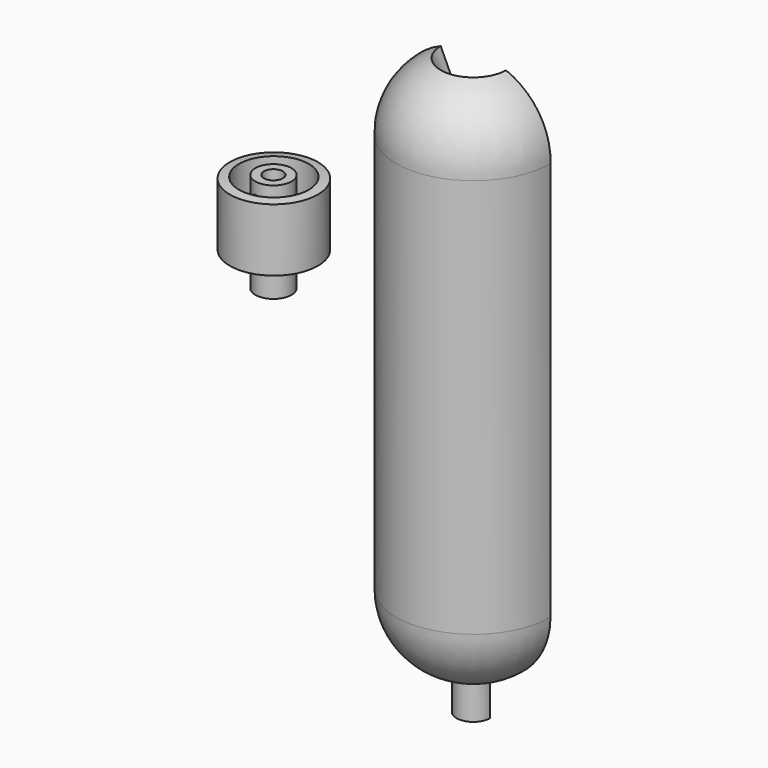
from build123d import *

# Parameters (mm, degrees)
F1_ANGLE  = 180
F4_R      = 4.516742
F5_DEPTH  = 25
F6_R      = 2.373704
F7_DEPTH  = 25
F8_W      = 3.216295
F8_H      = 9.752633
F9_DEPTH  = 6
F10_W     = 2.967861
F10_H     = 9.013506
F11_DEPTH = 6


with BuildPart() as f1:
    # F0 (on Front) → F1 (revolve)
    with BuildSketch(Plane.XZ):
        with BuildLine():
            Line((0, 50), (0, 0))
            Line((0, 0), (0, -49.90657))
            ThreePointArc((0, -49.90657), (4.324028, -61.578796), (15.119922, -67.774496))
            Line((15.119922, -67.774496), (15.119922, -77.07087))
            Line((15.119922, -77.07087), (19.309778, -77.07087))
            Line((19.309778, -77.07087), (19.309778, -74.997999))
            Line((19.309778, -74.997999), (16.822333, -74.997999))
            Line((16.822333, -74.997999), (16.822333, -67.774496))
            Line((16.822333, -67.774496), (16.822333, -63.389927))
            Line((16.822333, -63.389927), (6.319795, -58.967806))
            Line((6.319795, -58.967806), (2.060059, -49.90657))
            Line((2.060059, -49.90657), (2.060059, 49.90657))
            Line((2.060059, 49.90657), (3.44487, 56.894728))
            Line((3.44487, 56.894728), (13.622966, 61.602388))
            Line((13.622966, 61.602388), (11.144332, 66.961265))
            ThreePointArc((11.144332, 66.961265), (2.884864, 60.246314), (0, 50))
        make_face()
    revolve(axis=Axis((19.309778, 0, -76.034434), (0, 0, 1)), revolution_arc=F1_ANGLE)


with BuildPart() as f3:
    # F2 (on Front) → F3 (revolve)
    with BuildSketch(Plane.XZ):
        Polygon((-19.587396, 8.553413), (-19.587396, 24.256162), (-21.858403, 24.586305), (-21.858403, 11.003703), (-30.601788, 11.003703), (-30.601788, 8.553413), align=None)
    revolve(axis=Axis((-30.601788, 0, 9.778558), (0, 0, 1)))

    # F4 (on Top) → F5 (join)
    with BuildSketch(Plane.XY):
        with Locations((-30.711202, 0)):
            Circle(F4_R)
    extrude(amount=F5_DEPTH)

    # F6 (on face) → F7 (cut)
    with BuildSketch(Plane.XY.offset(25)):
        with Locations((-30.711202, 0)):
            Circle(F6_R)
    extrude(amount=-F7_DEPTH, mode=Mode.SUBTRACT)

    # F8 (on Front) → F9 (cut)
    with BuildSketch(Plane.XZ):
        with Locations((-30.581624, 17.174087)):
            Rectangle(F8_W, F8_H)
    extrude(amount=F9_DEPTH, mode=Mode.SUBTRACT)

    # F10 (on Front) → F11 (cut)
    with BuildSketch(Plane.XZ):
        with Locations((-30.791691, 17.398643)):
            Rectangle(F10_W, F10_H)
    extrude(amount=-F11_DEPTH, mode=Mode.SUBTRACT)


solid = Compound([f1.part, f3.part])
